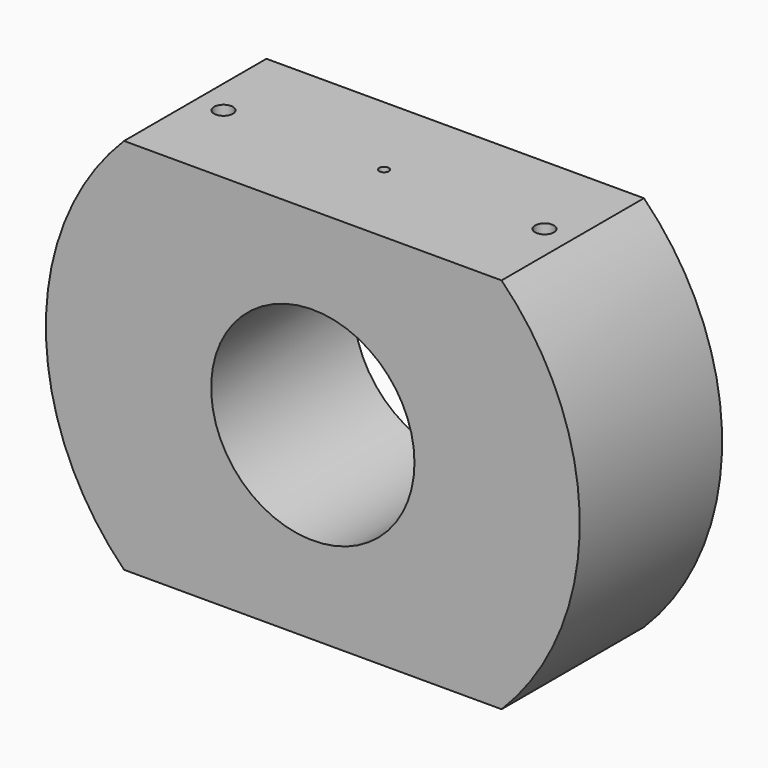
from build123d import *

# Parameters (mm, degrees)
F0_R     = 90
F1_DEPTH = 30
F3_DEPTH = 60.001
F4_R     = 34.275
F5_DEPTH = 60.001
F6_R     = 3.175
F6_R_2   = 1.5875
F7_DEPTH = 76.2


with BuildPart() as f1:
    # F0 (on Front) → F1 (new body, symmetric)
    with BuildSketch(Plane.XZ):
        Circle(F0_R)
    extrude(amount=F1_DEPTH, both=True)

    # F2 (on face) → F3 (cut, through all)
    with BuildSketch(Plane.XZ.offset(30)):
        with BuildLine():
            ThreePointArc((-63.6396103068, -63.6396103068), (0, -90), (63.6396103068, -63.6396103068))
            Line((63.6396103068, -63.6396103068), (-63.6396103068, -63.6396103068))
        make_face()
        with BuildLine():
            Line((-63.6396103068, 63.6396103068), (63.6396103068, 63.6396103068))
            ThreePointArc((63.6396103068, 63.6396103068), (0, 90), (-63.6396103068, 63.6396103068))
        make_face()
    extrude(amount=-F3_DEPTH, mode=Mode.SUBTRACT)

    # F4 (on face) → F5 (cut, through all)
    with BuildSketch(Plane.XZ.offset(30)):
        Circle(F4_R)
    extrude(amount=-F5_DEPTH, mode=Mode.SUBTRACT)

    # F6 (on face) → F7 (cut)
    with BuildSketch(Plane.XY.offset(63.6396103068)):
        with Locations((-54.1146103068, 0)):
            Circle(F6_R)
        Circle(F6_R_2)
        with Locations((54.1146103068, 0)):
            Circle(F6_R)
    extrude(amount=-F7_DEPTH, mode=Mode.SUBTRACT)


solid = f1.part
